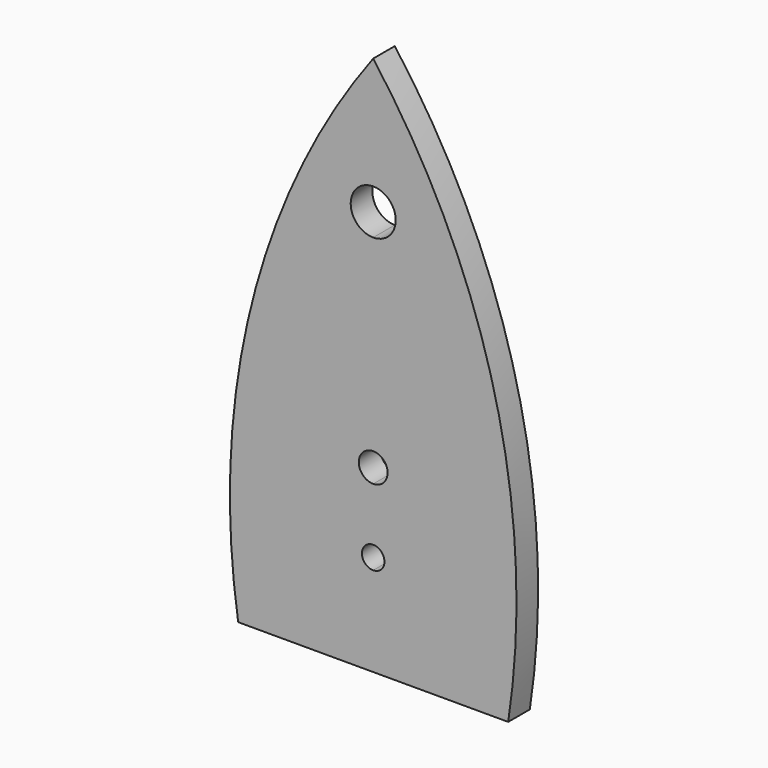
from build123d import *

# Parameters (mm, degrees)
F1_DEPTH = 7.62


with BuildPart() as f1:
    # F0 (on Front) → F1 (new body)
    with BuildSketch(Plane.XZ):
        with BuildLine():
            Line((0, 69.85), (0, 101.6))
            ThreePointArc((0, 101.6), (-34.372719, 29.23068), (-38.1, -50.8))
            Line((-38.1, -50.8), (0, -50.8))
            Line((0, -50.8), (0, -25.527))
            ThreePointArc((0, -25.527), (-3.175, -22.352), (0, -19.177))
            Line((0, -19.177), (0, -4.064))
            ThreePointArc((0, -4.064), (-4.064, 0), (0, 4.064))
            Line((0, 4.064), (0, 57.15))
            ThreePointArc((0, 57.15), (-6.35, 63.5), (0, 69.85))
        make_face()
        with BuildLine():
            ThreePointArc((38.1, -50.8), (34.372719, 29.23068), (0, 101.6))
            Line((0, 101.6), (0, 69.85))
            ThreePointArc((0, 69.85), (4.490128, 67.990128), (6.35, 63.5))
            ThreePointArc((6.35, 63.5), (4.490128, 59.009872), (0, 57.15))
            Line((0, 57.15), (0, 4.064))
            ThreePointArc((0, 4.064), (2.873682, 2.873682), (4.064, 0))
            ThreePointArc((4.064, 0), (2.873682, -2.873682), (0, -4.064))
            Line((0, -4.064), (0, -19.177))
            ThreePointArc((0, -19.177), (2.245064, -20.106936), (3.175, -22.352))
            ThreePointArc((3.175, -22.352), (2.245064, -24.597064), (0, -25.527))
            Line((0, -25.527), (0, -50.8))
            Line((0, -50.8), (38.1, -50.8))
        make_face()
    extrude(amount=F1_DEPTH)


solid = f1.part
